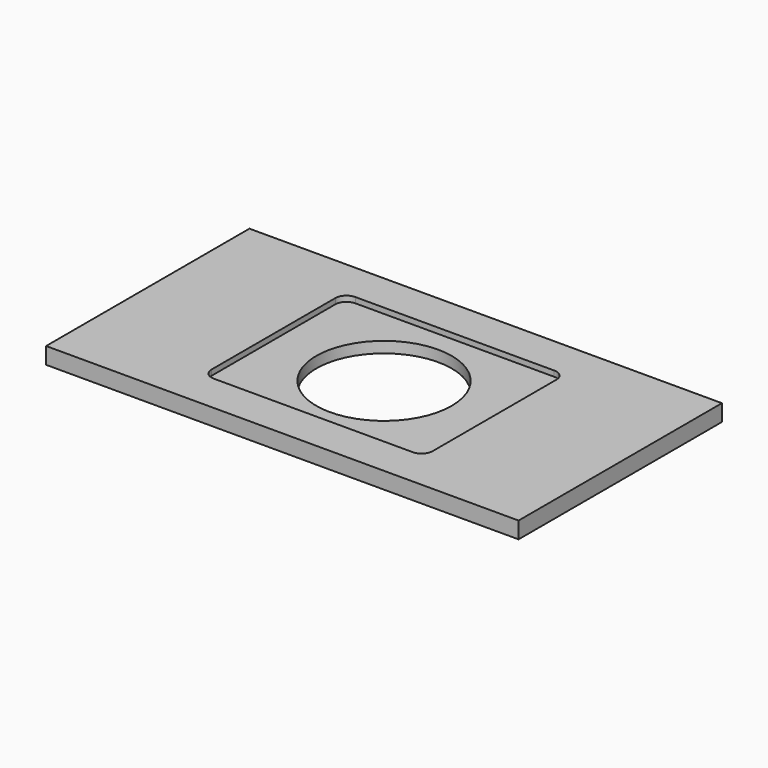
from build123d import *

# Parameters (mm, degrees)
F0_W     = 542.925
F0_H     = 292.1
F1_DEPTH = 19.05
F2_W     = 254
F2_H     = 203.2
F3_DEPTH = 6.35
F4_R     = 12.7
F5_R     = 77.7875
F6_DEPTH = 12.7


with BuildPart() as f1:
    # F0 (on Top) → F1 (new body)
    with BuildSketch(Plane.XY):
        Rectangle(F0_W, F0_H)
    extrude(amount=F1_DEPTH)

    # F2 (on face) → F3 (cut)
    with BuildSketch(Plane.XY.offset(19.05)):
        Rectangle(F2_W, F2_H)
    extrude(amount=-F3_DEPTH, mode=Mode.SUBTRACT)

    # F4
    f4_edges = [f1.edges().sort_by_distance(p)[0] for p in [
        (127, -101.6, 15.875),
        (-127, -101.6, 15.875),
        (-127, 101.6, 15.875),
        (127, 101.6, 15.875),
    ]]
    fillet(f4_edges, radius=F4_R)

    # F5 (on face) → F6 (cut, through all)
    with BuildSketch(Plane.XY.offset(12.7)):
        Circle(F5_R)
    extrude(amount=-F6_DEPTH, mode=Mode.SUBTRACT)


solid = f1.part
